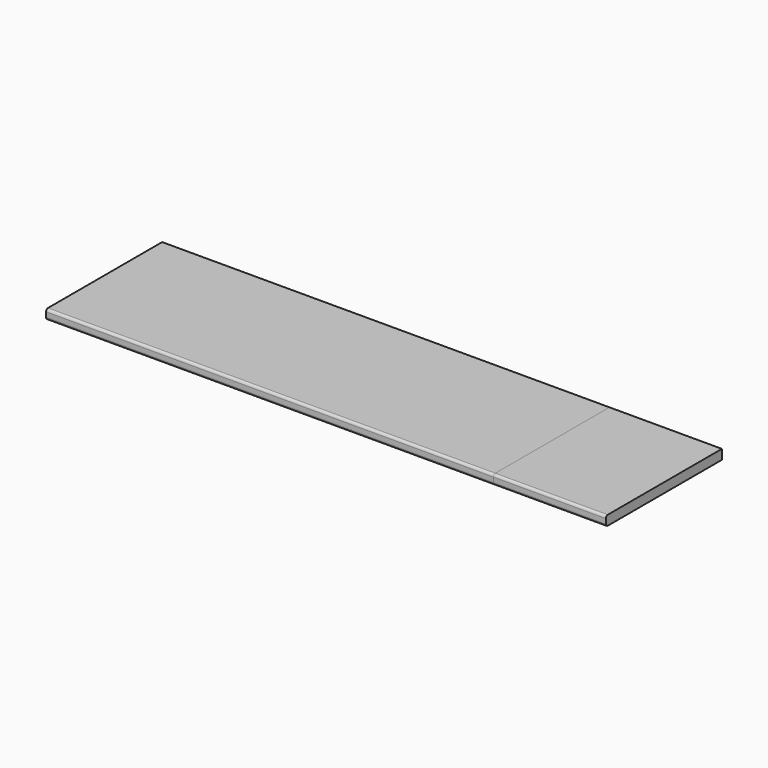
from build123d import *

# Parameters (mm, degrees)
F0_W     = 1850
F0_H     = 600
F1_DEPTH = 40
F2_R     = 10
F3_DEPTH = 465


with BuildPart() as f1:
    # F0 (on Top) → F1 (new body)
    with BuildSketch(Plane.XY):
        with Locations((925, 300)):
            Rectangle(F0_W, F0_H)
    extrude(amount=F1_DEPTH)

    # F2
    f2_edges = [f1.edges().sort_by_distance(p)[0] for p in [
        (925, 0, 40),
        (925, 0, 0),
    ]]
    fillet(f2_edges, radius=F2_R)


with BuildPart() as f3:
    # F1_face (on face) → F3 (new body)
    with BuildSketch(Plane(origin=(1850, 300.533464, 20), x_dir=(0, 1, 0), z_dir=(1, 0, 0))):
        with BuildLine():
            Line((-300.533464, 10), (-300.533464, -10))
            ThreePointArc((-300.533464, -10), (-297.604532, -17.071068), (-290.533464, -20))
            Line((-290.533464, -20), (299.466536, -20))
            Line((299.466536, -20), (299.466536, 20))
            Line((299.466536, 20), (-290.533464, 20))
            ThreePointArc((-290.533464, 20), (-297.604532, 17.071068), (-300.533464, 10))
        make_face()
    extrude(amount=F3_DEPTH)


solid = Compound([f1.part, f3.part])
